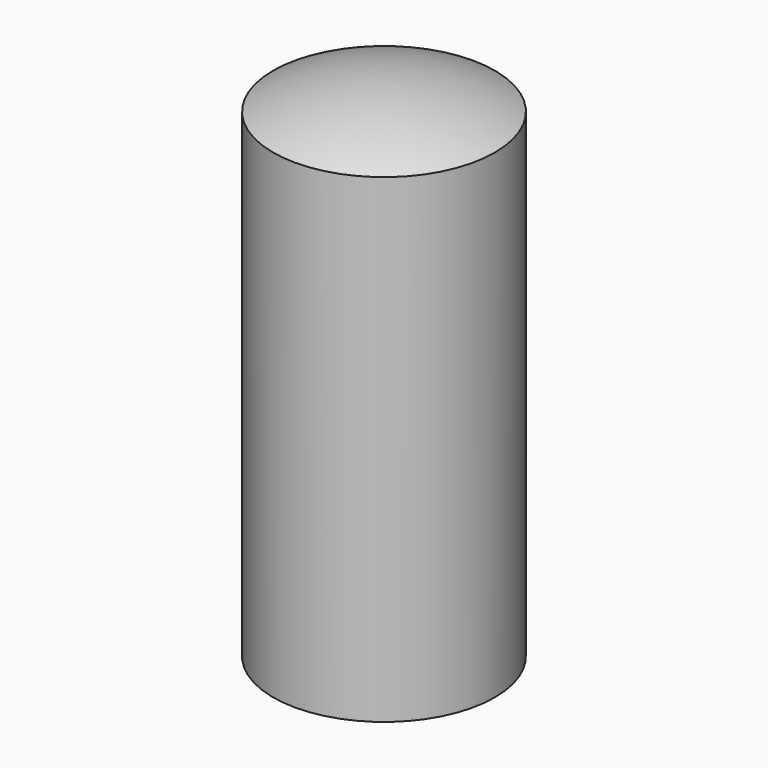
from build123d import *


with BuildPart() as f1:
    # F0 (on Front) → F1 (revolve)
    with BuildSketch(Plane.XZ):
        with BuildLine():
            Line((0, 33.808479), (0, -46.191521))
            ThreePointArc((0, -46.191521), (9.009605, -45.163652), (17.556176, -42.132872))
            Line((17.556176, -42.132872), (17.556176, 23.808479))
            Line((17.556176, 23.808479), (17.556176, 29.74983))
            ThreePointArc((17.556176, 29.74983), (9.009605, 32.78061), (0, 33.808479))
        make_face()
        with BuildLine():
            ThreePointArc((17.556176, -42.132872), (9.009605, -45.163652), (0, -46.191521))
            Line((0, -46.191521), (17.556176, -46.191521))
            Line((17.556176, -46.191521), (17.556176, -42.132872))
        make_face()
    revolve(axis=Axis((0, 0, -6.191521), (0, 0, 1)))


solid = f1.part
